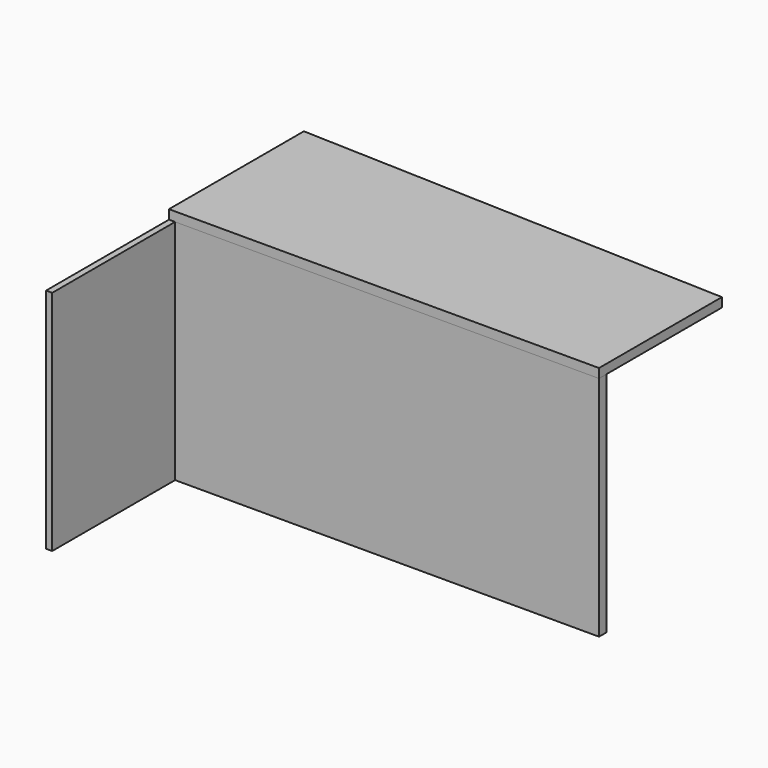
from build123d import *

# Parameters (mm, degrees)
PAD_DEPTH    = 15
SKETCH001_W  = 700
SKETCH001_H  = 15
PAD001_DEPTH = 370
SKETCH002_W  = 10
SKETCH002_H  = 370
PAD002_DEPTH = 250


with BuildPart() as obj1:
    # Sketch → Pad (new body)
    with BuildSketch(Plane.XY):
        Polygon((0, 0), (700, 0), (700, 250), (0, 274.444539), (0, 250), align=None)
    extrude(amount=PAD_DEPTH)


with BuildPart() as obj2:
    # Sketch001 → Pad001 (new body)
    with BuildSketch(Plane.XY):
        with Locations((350, 7.5)):
            Rectangle(SKETCH001_W, SKETCH001_H)
    extrude(amount=-PAD001_DEPTH)


with BuildPart() as obj3:
    # Sketch002 → Pad002 (new body)
    with BuildSketch(Plane.XZ):
        with Locations((5, -185)):
            Rectangle(SKETCH002_W, SKETCH002_H)
    extrude(amount=PAD002_DEPTH)


solid = Compound([obj1.part, obj2.part, obj3.part])
